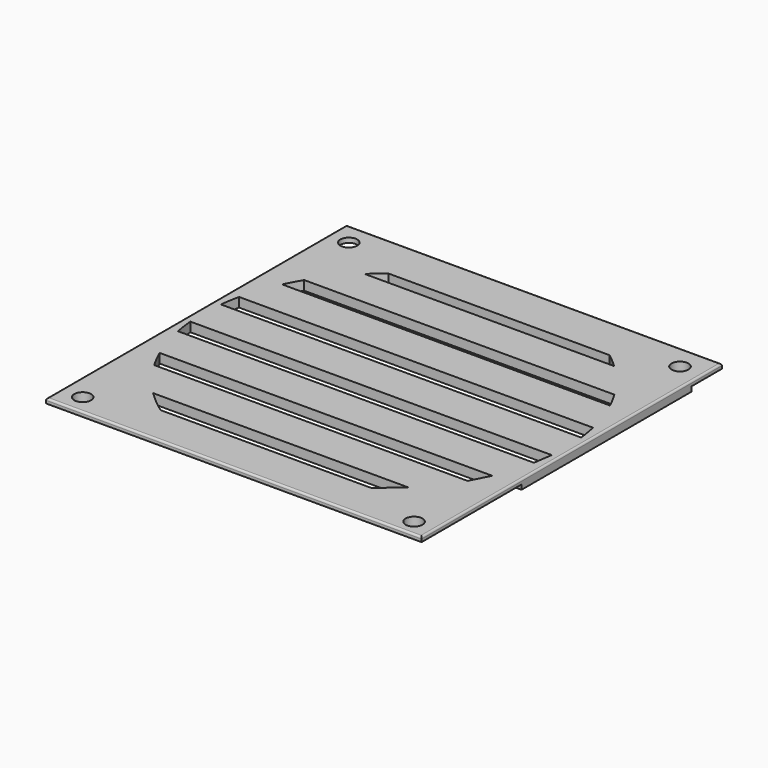
from build123d import *

# Parameters (mm, degrees)
F0_W      = 101.6
F0_H      = 101.6
F0_R      = 50.2793
F1_DEPTH  = 2.54
F3_DEPTH  = 2.541
F5_DEPTH  = 1.27
F6_R      = 0.508
F7_R      = 2.286
F8_DEPTH  = 2.541
F9_R      = 2.286
F10_DEPTH = 2.541


with BuildPart() as f1:
    # F0 (on Top) → F1 (new body)
    with BuildSketch(Plane.XY):
        Rectangle(F0_W, F0_H)
        Circle(F0_R, mode=Mode.SUBTRACT)
        Circle(F0_R)
    extrude(amount=F1_DEPTH)

    # F2 (on face) → F3 (cut, through all)
    with BuildSketch(Plane.XY.offset(2.54)):
        with BuildLine():
            Line((-33.768142, 35.632432), (33.768142, 35.632432))
            ThreePointArc((33.768142, 35.632432), (31.879279, 37.331879), (29.905016, 38.931319))
            Line((29.905016, 38.931319), (-29.905016, 38.931319))
            ThreePointArc((-29.905016, 38.931319), (-31.879279, 37.331879), (-33.768142, 35.632432))
        make_face()
        with BuildLine():
            Line((-44.373298, 20.999238), (44.373298, 20.999238))
            ThreePointArc((44.373298, 20.999238), (43.227357, 23.266999), (41.965615, 25.472432))
            Line((41.965615, 25.472432), (-41.965615, 25.472432))
            ThreePointArc((-41.965615, 25.472432), (-43.227357, 23.266999), (-44.373298, 20.999238))
        make_face()
        with BuildLine():
            Line((-48.752321, 5.759238), (48.752321, 5.759238))
            ThreePointArc((48.752321, 5.759238), (48.382744, 8.310698), (47.87973, 10.839238))
            Line((47.87973, 10.839238), (-47.87973, 10.839238))
            ThreePointArc((-47.87973, 10.839238), (-48.382744, 8.310698), (-48.752321, 5.759238))
        make_face()
        with BuildLine():
            Line((48.167134, -9.480762), (48.893669, -4.400762))
            Line((48.893669, -4.400762), (-48.893669, -4.400762))
            ThreePointArc((-48.893669, -4.400762), (-48.596826, -6.950262), (-48.167134, -9.480762))
            Line((-48.167134, -9.480762), (48.167134, -9.480762))
        make_face()
        with BuildLine():
            Line((42.412752, -24.720762), (44.991089, -19.640762))
            Line((44.991089, -19.640762), (-44.991089, -19.640762))
            ThreePointArc((-44.991089, -19.640762), (-43.775672, -22.218194), (-42.412752, -24.720762))
            Line((-42.412752, -24.720762), (42.412752, -24.720762))
        make_face()
        with BuildLine():
            Line((28.514823, -39.960762), (34.544031, -34.880762))
            Line((34.544031, -34.880762), (-34.544031, -34.880762))
            ThreePointArc((-34.544031, -34.880762), (-31.631572, -37.541993), (-28.514823, -39.960762))
            Line((-28.514823, -39.960762), (28.514823, -39.960762))
        make_face()
    extrude(amount=-F3_DEPTH, mode=Mode.SUBTRACT)

    # F4 (on face) → F5 (cut)
    with BuildSketch(Plane(origin=(0, 0, 0), x_dir=(1, 0, 0), z_dir=(0, 0, -1))):
        Polygon((-48.20291, 44.609038), (-45.037047, 48.350511), (43.894938, 48.350511), (47.060798, 43.457819), (47.348599, 16.979685), (50.8, 16.979685), (50.8, 50.8), (-50.8, 50.8), (-50.8, 15.97322), (-48.20291, 15.540657), align=None)
        Polygon((-48.167134, -15.109803), (-50.8, -15.109803), (-50.8, -50.8), (50.8, -50.8), (50.8, -40.436711), (48.167134, -41.300129), (45.905016, -47.056243), (-44.991089, -46.768438), (-48.167134, -42.451348), align=None)
    extrude(amount=-F5_DEPTH, mode=Mode.SUBTRACT)

    # F6
    f6_edges = [f1.edges().sort_by_distance(p)[0] for p in [
        (0, 50.8, 2.54),
        (-50.8, 0, 2.54),
        (0, -50.8, 2.54),
        (50.8, 0, 2.54),
    ]]
    fillet(f6_edges, radius=F6_R)

    # F7 (on face) → F8 (cut, through all)
    with BuildSketch(Plane.XY.offset(2.54)):
        with Locations((-45.329407, 44.753794)):
            Circle(F7_R)
        with Locations((44.753794, 44.178184)):
            Circle(F7_R)
        with Locations((45.204923, -46.339341)):
            Circle(F7_R)
    extrude(amount=-F8_DEPTH, mode=Mode.SUBTRACT)

    # F9 (on face) → F10 (cut, through all)
    with BuildSketch(Plane.XY.offset(2.54)):
        with Locations((-45.041602, -45.617212)):
            Circle(F9_R)
    extrude(amount=-F10_DEPTH, mode=Mode.SUBTRACT)


solid = f1.part
